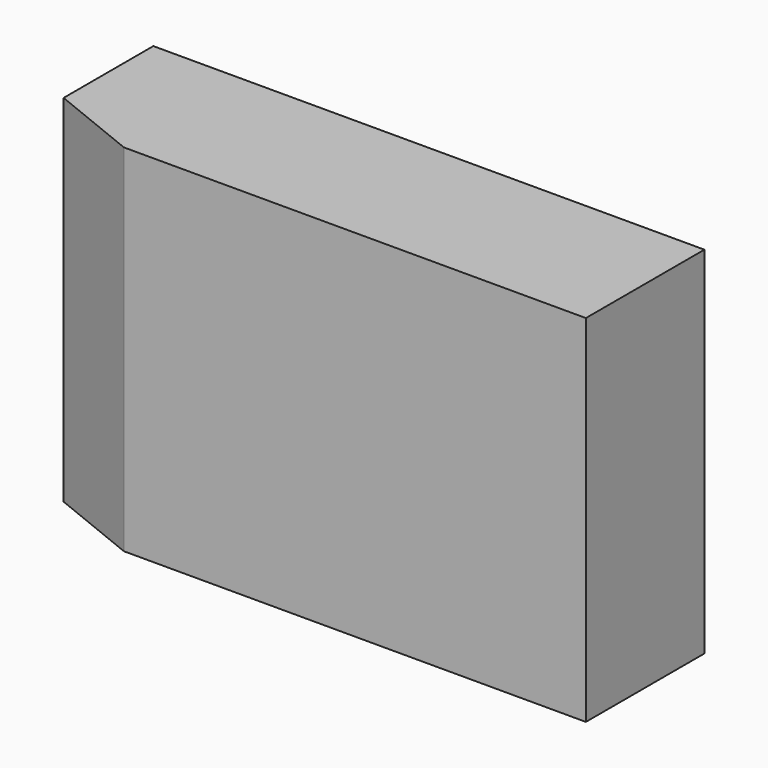
from build123d import *

# Parameters (mm, degrees)
BOX041_W                  = 41
BOX041_H                  = 12
BOX041_DEPTH              = 200
BOX041_PLACEMENT_ANGLE    = 22
BOX_W                     = 186
BOX_H                     = 50
BOX_DEPTH                 = 120
BOX039_W                  = 11
BOX039_H                  = 7
BOX039_DEPTH              = 85
FUSION012_PLACEMENT_ANGLE = 180


with BuildPart() as cube036:
    # Box041 → Box041 (new body)
    with BuildSketch(Plane.XY):
        with Locations((20.5, 6)):
            Rectangle(BOX041_W, BOX041_H)
    extrude(amount=BOX041_DEPTH)


with BuildPart() as cube036_1:
    # Box041 placement: moved
    add(cube036.part.moved(Location((-1.797588, 37.123258, -8))).rotate(Axis((-1.797588, 37.123258, -8), (0, 0, 1)), BOX041_PLACEMENT_ANGLE))


with BuildPart() as cut012:
    # Box → Box (new body)
    with BuildSketch(Plane.XY):
        with Locations((93, 25)):
            Rectangle(BOX_W, BOX_H)
    extrude(amount=BOX_DEPTH)

    # Cut012: cut Cube036
    add(cube036_1.part, mode=Mode.SUBTRACT)


with BuildPart() as obj1:
    # Box039 → Box039 (new body)
    with BuildSketch(Plane(origin=(-10, 1, 9), x_dir=(1, 0, 0), z_dir=(0, 0, 1))):
        with Locations((5.5, 3.5)):
            Rectangle(BOX039_W, BOX039_H)
    extrude(amount=BOX039_DEPTH)

    # Fusion012: union Cut012
    add(cut012.part)


with BuildPart() as obj1_1:
    # Fusion012 placement: moved
    add(obj1.part.moved(Location((0, -65.5, 174))).rotate(Axis((0, -65.5, 174), (1, 0, 0)), FUSION012_PLACEMENT_ANGLE))


solid = obj1_1.part
